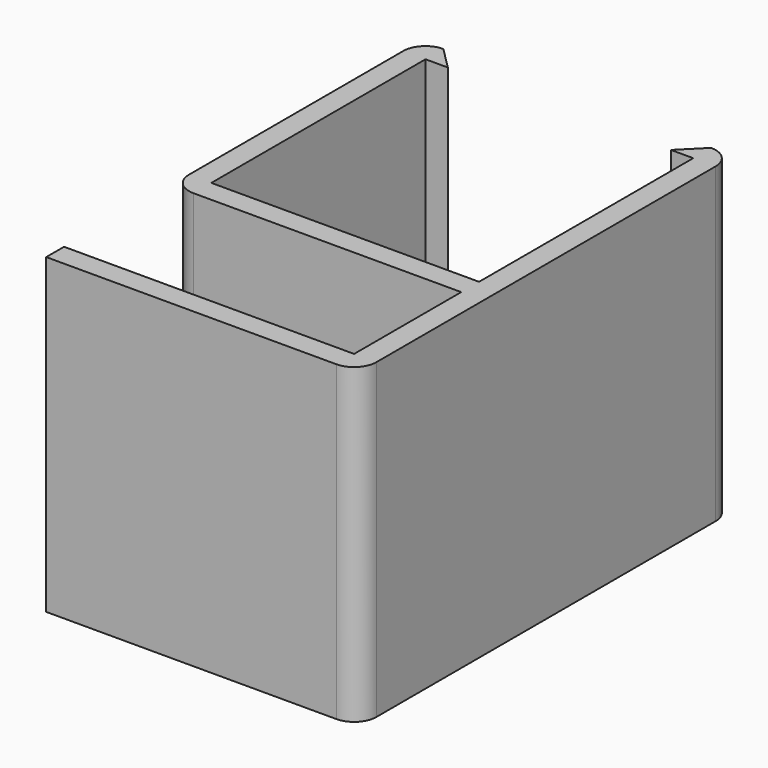
from build123d import *

# Parameters (mm, degrees)
F1_DEPTH = 44.45


with BuildPart() as f1:
    # F0 (on Top) → F1 (new body)
    with BuildSketch(Plane.XY):
        with BuildLine():
            Line((38.1, 0), (0, 0))
            Line((0, 0), (0, 38.1))
            Line((0, 38.1), (3.175, 38.1))
            Line((3.175, 38.1), (0, 41.275))
            ThreePointArc((0, 41.275), (-2.245064, 40.345064), (-3.175, 38.1))
            Line((-3.175, 38.1), (-3.175, 0))
            ThreePointArc((-3.175, 0), (-2.245064, -2.245064), (0, -3.175))
            Line((0, -3.175), (38.1, -3.175))
            Line((38.1, -3.175), (38.1, -22.225))
            Line((38.1, -22.225), (-3.175, -22.225))
            Line((-3.175, -22.225), (-3.175, -25.4))
            Line((-3.175, -25.4), (38.1, -25.4))
            ThreePointArc((38.1, -25.4), (40.345064, -24.470064), (41.275, -22.225))
            Line((41.275, -22.225), (41.275, -3.175))
            Line((41.275, -3.175), (41.275, 38.1))
            ThreePointArc((41.275, 38.1), (40.345064, 40.345064), (38.1, 41.275))
            Line((38.1, 41.275), (34.925, 38.1))
            Line((34.925, 38.1), (38.1, 38.1))
            Line((38.1, 38.1), (38.1, 0))
        make_face()
    extrude(amount=F1_DEPTH)


solid = f1.part
